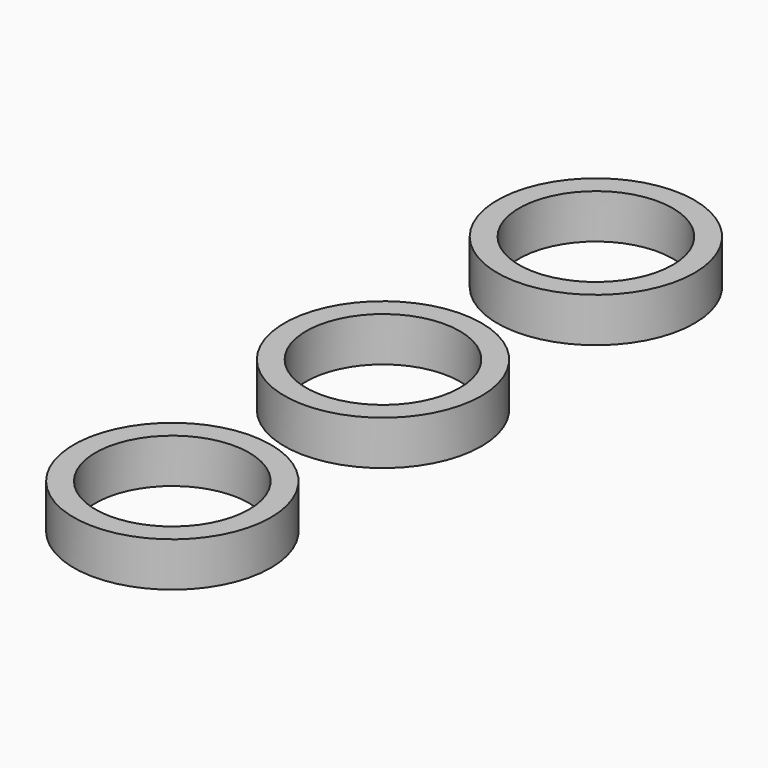
from build123d import *

# Parameters (mm, degrees)
F0_R     = 14.1097
F0_R_2   = 10.9982
F1_DEPTH = 6.35


with BuildPart() as f1:
    # F0 (on Top) → F1 (new body)
    with BuildSketch(Plane.XY):
        with Locations((0, 38.1)):
            Circle(F0_R)
        with Locations((0, 38.1)):
            Circle(F0_R_2, mode=Mode.SUBTRACT)
        with Locations((0, -37.698947)):
            Circle(F0_R)
        with Locations((0, -37.698947)):
            Circle(F0_R_2, mode=Mode.SUBTRACT)
        Circle(F0_R)
        Circle(F0_R_2, mode=Mode.SUBTRACT)
    extrude(amount=F1_DEPTH)


solid = f1.part
